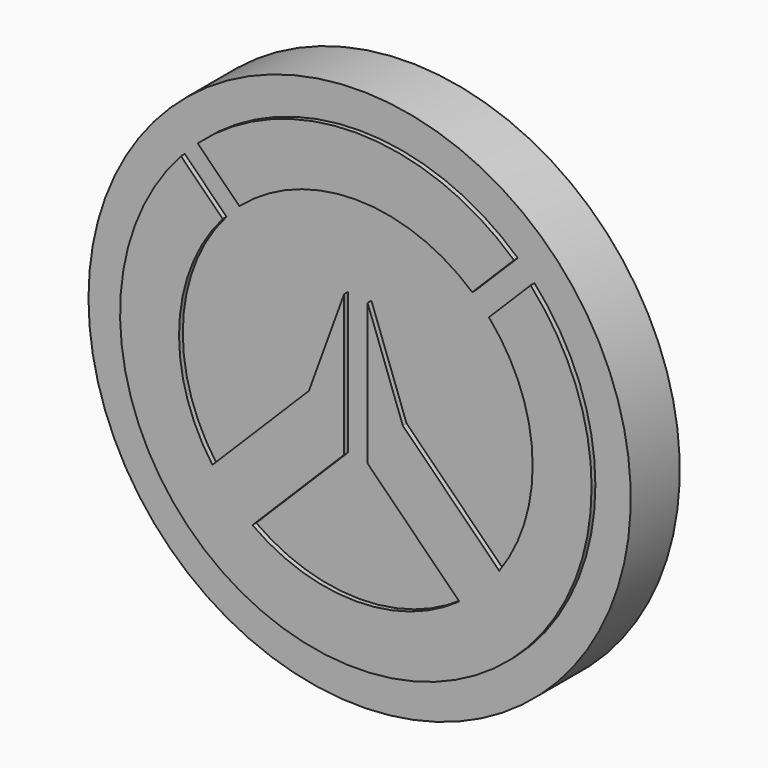
from build123d import *

# Parameters (mm, degrees)
F1_DEPTH = 3
F2_DEPTH = 3
F4_DEPTH = 3
F6_R     = 11.5
F7_DEPTH = 2.6


with BuildPart() as f1:
    # F0 (on Front) → F1 (new body)
    with BuildSketch(Plane.XZ):
        with BuildLine():
            ThreePointArc((-7.4157768365, 6.7086700553), (-3.5945953621, -9.331606731), (10, 0))
            ThreePointArc((10, 0), (9.331606731, 3.5945953621), (7.4157768365, 6.7086700553))
            Line((7.4157768365, 6.7086700553), (5.6450560127, 4.9379492315))
            ThreePointArc((5.6450560127, 4.9379492315), (7.0209657489, 2.6374305588), (7.5, 0))
            ThreePointArc((7.5, 0), (-2.6374305588, -7.0209657489), (-5.6450560127, 4.9379492315))
            Line((-5.6450560127, 4.9379492315), (-7.4157768365, 6.7086700553))
        make_face()
    extrude(amount=F1_DEPTH)

    # F3 (on Front) → F4 (join, through all)
    with BuildSketch(Plane.XZ):
        with BuildLine():
            Line((-1.9912281105, -0.2941718356), (-6.0835066474, -4.3864503726))
            ThreePointArc((-6.0835066474, -4.3864503726), (-5.7118298294, -4.8605555238), (-5.3033008589, -5.3033008589))
            Line((-5.3033008589, -5.3033008589), (-0.5, -0.5))
            Line((-0.5, -0.5), (-0.5, 1.1970562748))
            Line((-0.5, 1.1970562748), (-1.9912281105, -0.2941718356))
        make_face()
        with BuildLine():
            Line((-0.5, -0.5), (-5.3033008589, -5.3033008589))
            ThreePointArc((-5.3033008589, -5.3033008589), (-4.8605555238, -5.7118298294), (-4.3864503726, -6.0835066474))
            Line((-4.3864503726, -6.0835066474), (-0.5, -2.1970562748))
            Line((-0.5, -2.1970562748), (-0.5, -0.5))
        make_face()
        Polygon((-0.5, 3.8029437252), (-1.9912281105, -0.2941718356), (-0.5, 1.1970562748), align=None)
        with BuildLine():
            Line((0.5, -0.5), (5.3033008589, -5.3033008589))
            ThreePointArc((5.3033008589, -5.3033008589), (5.7118298294, -4.8605555238), (6.0835066474, -4.3864503726))
            Line((6.0835066474, -4.3864503726), (1.9912281105, -0.2941718356))
            Line((1.9912281105, -0.2941718356), (0.5, 1.1970562748))
            Line((0.5, 1.1970562748), (0.5, -0.5))
        make_face()
        with BuildLine():
            Line((0.5, -2.1970562748), (4.3864503726, -6.0835066474))
            ThreePointArc((4.3864503726, -6.0835066474), (4.8605555238, -5.7118298294), (5.3033008589, -5.3033008589))
            Line((5.3033008589, -5.3033008589), (0.5, -0.5))
            Line((0.5, -0.5), (0.5, -2.1970562748))
        make_face()
        Polygon((0.5, 3.8029437252), (0.5, 1.1970562748), (1.9912281105, -0.2941718356), align=None)
    extrude(amount=F4_DEPTH)



with BuildPart() as f2:
    # F0 (on Front) → F2 (new body, through all)
    with BuildSketch(Plane.XZ):
        with BuildLine():
            Line((4.9379492315, 5.6450560127), (6.7086700553, 7.4157768365))
            ThreePointArc((6.7086700553, 7.4157768365), (0, 10), (-6.7086700553, 7.4157768365))
            Line((-6.7086700553, 7.4157768365), (-4.9379492315, 5.6450560127))
            ThreePointArc((-4.9379492315, 5.6450560127), (0, 7.5), (4.9379492315, 5.6450560127))
        make_face()
    extrude(amount=F2_DEPTH)


with BuildPart() as f1_1:
    add(f1.part)

    add(f2.part)  # F7 merges F2
    # F6 (on offset) → F7 (join)
    with BuildSketch(Plane(origin=(0, -0.2, 0), x_dir=(-1, 0, 0), z_dir=(0, 1, 0))):
        Circle(F6_R)
    extrude(amount=-F7_DEPTH)


solid = f1_1.part
